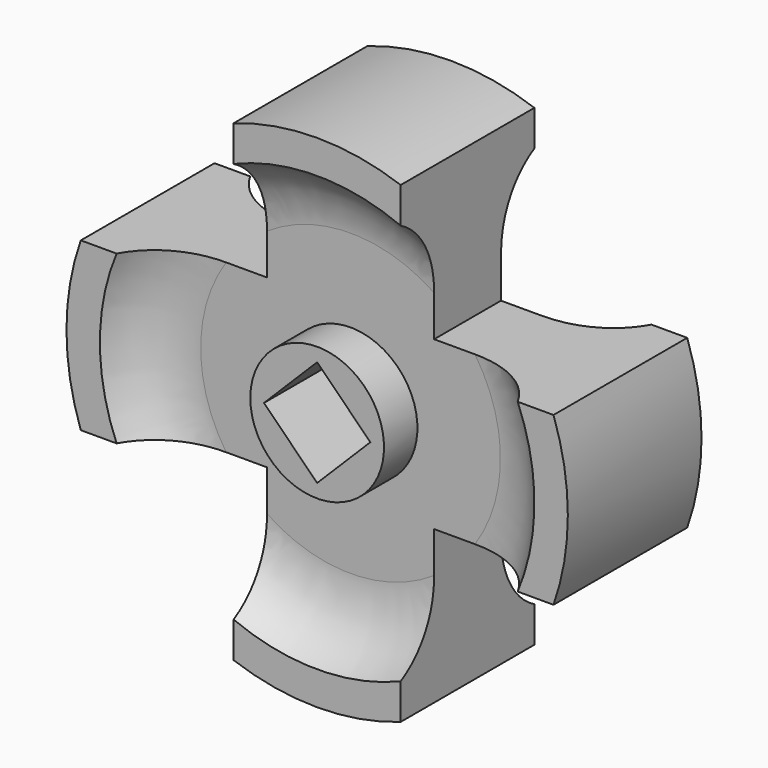
from build123d import *

# Parameters (mm, degrees)
F3_DEPTH = 40.001
F5_DEPTH = 40.0010001


with BuildPart() as f1:
    # F0 (on Top) → F1 (revolve)
    with BuildSketch(Plane.XY):
        with BuildLine():
            Line((-60, 20), (-60, 10))
            Line((-60, 10), (-60, -10))
            Line((-60, -10), (-60, -20))
            Line((-60, -20), (-52, -20))
            ThreePointArc((-52, -20), (-45.3623174839, -12.7029414592), (-35.8754845034, -10))
            Line((-35.8754845034, -10), (-16, -10))
            Line((-16, -10), (-16, -20))
            Line((-16, -20), (0, -20))
            Line((0, -20), (0, 20))
            Line((0, 20), (-16, 20))
            Line((-16, 20), (-16, 10))
            Line((-16, 10), (-35.8754845034, 10))
            ThreePointArc((-35.8754845034, 10), (-45.3623174839, 12.7029414592), (-52, 20))
            Line((-52, 20), (-60, 20))
        make_face()
    revolve(axis=Axis((0, 0.0902060419, 0), (0, -1, 0)))

    # F2 (on face) → F3 (cut, through all)
    with BuildSketch(Plane.XZ.offset(20)):
        with BuildLine():
            Line((48, 20), (56.5685424949, 20))
            ThreePointArc((56.5685424949, 20), (42.4264068712, 42.4264068712), (20, 56.5685424949))
            Line((20, 56.5685424949), (20, 48))
            ThreePointArc((20, 48), (36.7695526217, 36.7695526217), (48, 20))
        make_face()
        with BuildLine():
            Line((20, 20), (48, 20))
            ThreePointArc((48, 20), (36.7695526217, 36.7695526217), (20, 48))
            Line((20, 48), (20, 20))
        make_face()
        with BuildLine():
            Line((-20, 20), (-20, 48))
            ThreePointArc((-20, 48), (-36.7695526217, 36.7695526217), (-48, 20))
            Line((-48, 20), (-20, 20))
        make_face()
        with BuildLine():
            Line((-20, 48), (-20, 56.5685424949))
            ThreePointArc((-20, 56.5685424949), (-42.4264068712, 42.4264068712), (-56.5685424949, 20))
            Line((-56.5685424949, 20), (-48, 20))
            ThreePointArc((-48, 20), (-36.7695526217, 36.7695526217), (-20, 48))
        make_face()
        with BuildLine():
            ThreePointArc((-56.5685424949, -20), (-42.4264068712, -42.4264068712), (-20, -56.5685424949))
            Line((-20, -56.5685424949), (-20, -48))
            ThreePointArc((-20, -48), (-36.7695526217, -36.7695526217), (-48, -20))
            Line((-48, -20), (-56.5685424949, -20))
        make_face()
        with BuildLine():
            ThreePointArc((-48, -20), (-36.7695526217, -36.7695526217), (-20, -48))
            Line((-20, -48), (-20, -20))
            Line((-20, -20), (-48, -20))
        make_face()
        with BuildLine():
            ThreePointArc((20, -56.5685424949), (42.4264068712, -42.4264068712), (56.5685424949, -20))
            Line((56.5685424949, -20), (48, -20))
            ThreePointArc((48, -20), (36.7695526217, -36.7695526217), (20, -48))
            Line((20, -48), (20, -56.5685424949))
        make_face()
        with BuildLine():
            ThreePointArc((20, -48), (36.7695526217, -36.7695526217), (48, -20))
            Line((48, -20), (20, -20))
            Line((20, -20), (20, -48))
        make_face()
    extrude(amount=-F3_DEPTH, mode=Mode.SUBTRACT)

    # F4 (on face) → F5 (cut, through all)
    with BuildSketch(Plane.XZ.offset(20)):
        Polygon((0, -12.7279), (12.7279, 0), (0, 12.7279), (-12.7279, 0), align=None)
    extrude(amount=-F5_DEPTH, mode=Mode.SUBTRACT)


solid = f1.part
